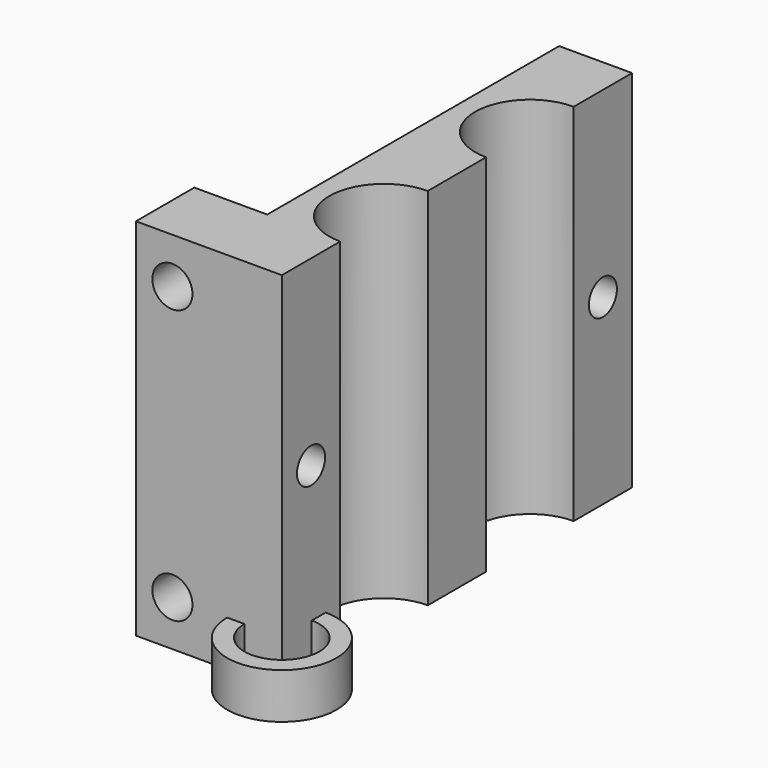
from build123d import *

# Parameters (mm, degrees)
PAD001_DEPTH  = 40
SKETCH005_R   = 2.2
HOLE003_DEPTH = 25
SKETCH004_R   = 1.925
HOLE_DEPTH    = 8.843343
HOLE_TIPS_R   = 1.925
SKETCH_R      = 6
SKETCH_R_2    = 4.1
PAD_DEPTH     = 5


with BuildPart() as mount:
    # Sketch003 → Pad001 (new body)
    with BuildSketch(Plane.XY):
        with BuildLine():
            Line((-16, 8), (-16, 0))
            Line((-16, 0), (0, 0))
            Line((0, 0), (0, 8))
            ThreePointArc((0, 20), (-6, 14), (0, 8))
            Line((0, 28), (0, 20))
            ThreePointArc((0, 40), (-6, 34), (0, 28))
            Line((0, 48), (0, 40))
            Line((-8, 48), (0, 48))
            Line((-8, 48), (-8, 8))
            Line((-16, 8), (-8, 8))
        make_face()
    extrude(amount=PAD001_DEPTH)

    # Sketch005 → Hole003 (cut)
    with BuildSketch(Plane(origin=(0, 8, 0), x_dir=(-1, 0, 0), z_dir=(0, 1, 0))):
        with Locations((12, 5)):
            Circle(SKETCH005_R)
        with Locations((12, 35)):
            Circle(SKETCH005_R)
    extrude(amount=-HOLE003_DEPTH, mode=Mode.SUBTRACT)

    # Sketch004 (on Face9 of Pad001) → Hole (cut)
    with BuildSketch(Plane.YZ):
        with Locations((4, 20)):
            Circle(SKETCH004_R)
        with Locations((44, 20)):
            Circle(SKETCH004_R)
    extrude(amount=-HOLE_DEPTH, mode=Mode.SUBTRACT)

    # Hole tips → Hole tip 1 section 0
    with BuildSketch(Plane.YZ.offset(-8.843343), mode=Mode.PRIVATE) as hole_tip_1_s0:
        with Locations((4, 20)):
            Circle(HOLE_TIPS_R)
    loft([hole_tip_1_s0.sketch, Vertex(-10, 4, 20)], mode=Mode.SUBTRACT)

    # Hole tips → Hole tip 2 section 0
    with BuildSketch(Plane.YZ.offset(-8.843343), mode=Mode.PRIVATE) as hole_tip_2_s0:
        with Locations((44, 20)):
            Circle(HOLE_TIPS_R)
    loft([hole_tip_2_s0.sketch, Vertex(-10, 44, 20)], mode=Mode.SUBTRACT)


with BuildPart() as adapter:
    # Sketch → Pad (new body)
    with BuildSketch(Plane.XY):
        Circle(SKETCH_R)
        Circle(SKETCH_R_2, mode=Mode.SUBTRACT)
    extrude(amount=PAD_DEPTH)


solid = Compound([mount.part, adapter.part])
